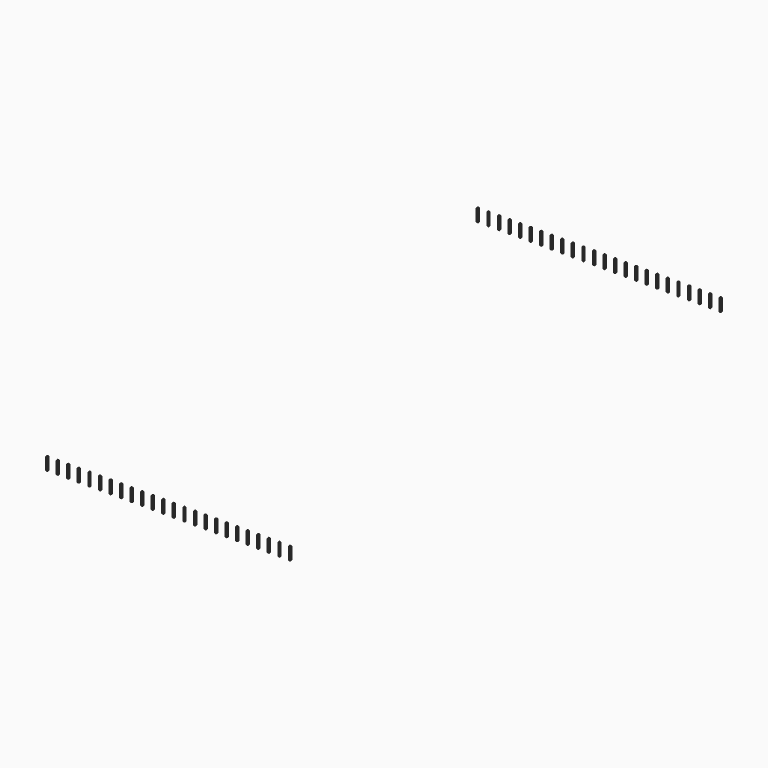
from build123d import *

# Parameters (mm, degrees)
BOX002_W      = 0.32
BOX002_H      = 0.32
BOX002_DEPTH  = 3
ARRAY_X_COUNT = 24
ARRAY_X_PITCH = 2.54
ARRAY_Y_COUNT = 2
ARRAY_Y_PITCH = 129.54


with BuildPart() as part:
    # Box002 → Box002 (new body)
    with BuildSketch(Plane(origin=(-0.16, -0.16, -3), x_dir=(1, 0, 0), z_dir=(0, 0, 1))):
        with Locations((0.16, 0.16)):
            Rectangle(BOX002_W, BOX002_H)
    extrude(amount=BOX002_DEPTH)

    # Array X: part ×24


with BuildPart() as part_1:
    add(part.part)
    with Locations(*[(i * ARRAY_X_PITCH, 0, 0) for i in range(1, ARRAY_X_COUNT)]):
        add(part.part)

    # Array Y: part ×2


with BuildPart() as part_2:
    add(part_1.part)
    with Locations(*[(0, -i * ARRAY_Y_PITCH, 0) for i in range(1, ARRAY_Y_COUNT)]):
        add(part_1.part)


solid = part_2.part
